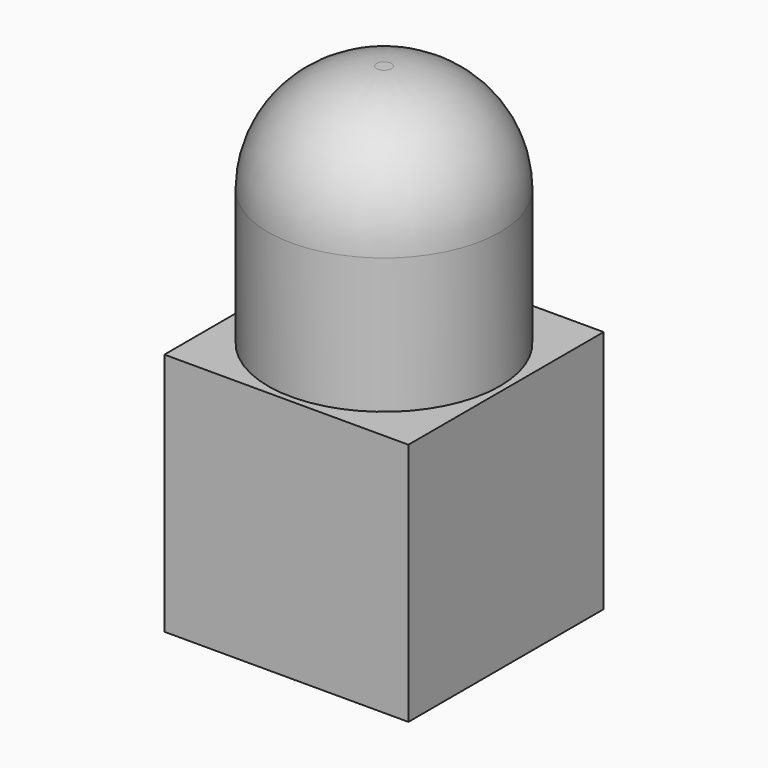
from build123d import *

# Parameters (mm, degrees)
SKETCH_W     = 10
SKETCH_H     = 10
PAD_DEPTH    = 10
SKETCH001_R  = 4.75
PAD001_DEPTH = 10
FILLET_R     = 4.45


with BuildPart() as part:
    # Sketch → Pad (new body)
    with BuildSketch(Plane.XY):
        Rectangle(SKETCH_W, SKETCH_H)
    extrude(amount=PAD_DEPTH)

    # Sketch001 (on Face6 of Pad) → Pad001 (join)
    with BuildSketch(Plane.XY.offset(10)):
        Circle(SKETCH001_R)
    extrude(amount=PAD001_DEPTH)

    # Fillet
    fillet_edges = [part.edges().sort_by_distance(p)[0] for p in [
        (-4.75, 0, 20),
    ]]
    fillet(fillet_edges, radius=FILLET_R)


solid = part.part
